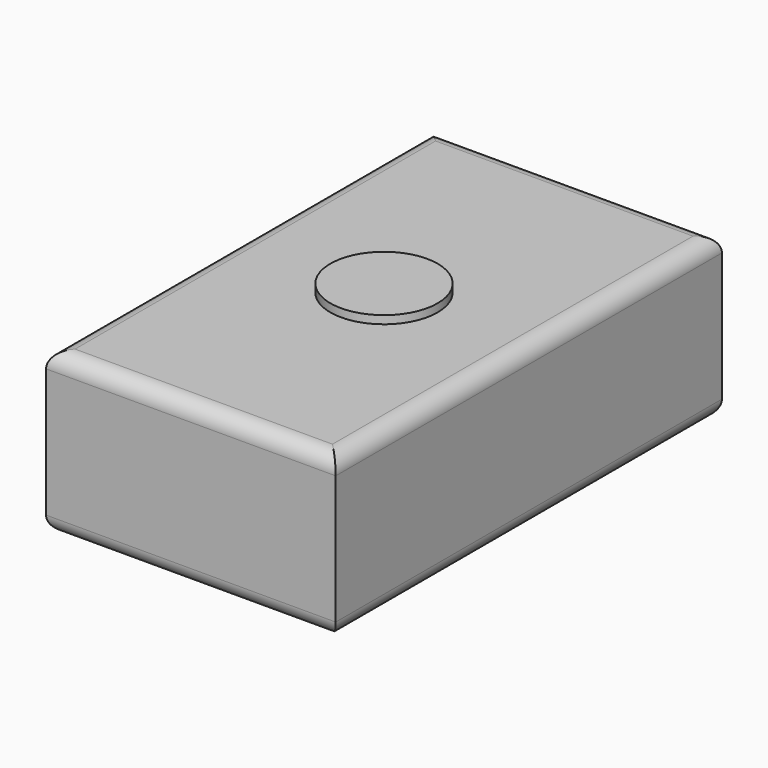
from build123d import *

# Parameters (mm, degrees)
F0_W     = 457.2
F0_H     = 762
F1_DEPTH = 254
F2_R     = 25.4
F3_R     = 84.662074
F4_DEPTH = 12.7


with BuildPart() as f1:
    # F0 (on Top) → F1 (new body)
    with BuildSketch(Plane.XY):
        Rectangle(F0_W, F0_H)
    extrude(amount=F1_DEPTH)

    # F2
    f2_edges = [f1.edges().sort_by_distance(p)[0] for p in [
        (0, 381, 254),
        (228.6, 0, 254),
        (0, -381, 254),
        (-228.6, 0, 254),
        (228.6, 0, 0),
        (-228.6, 0, 0),
        (0, -381, 0),
        (0, 381, 0),
    ]]
    fillet(f2_edges, radius=F2_R)

    # F3 (on face) → F4 (join)
    with BuildSketch(Plane.XY.offset(254)):
        Circle(F3_R)
    extrude(amount=F4_DEPTH)


solid = f1.part
